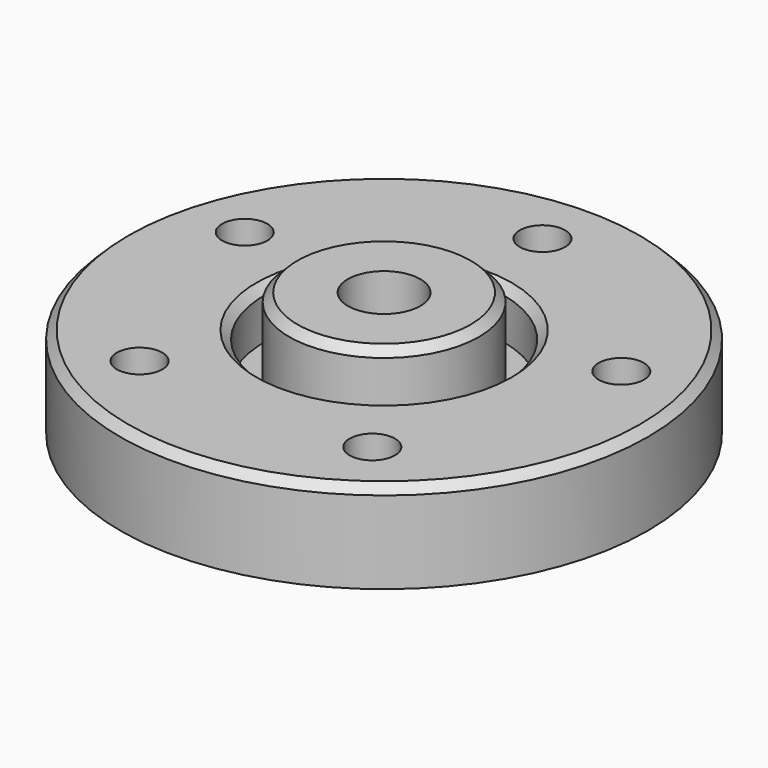
from build123d import *

# Parameters (mm, degrees)
F0_R     = 11.5
F1_DEPTH = 15
F0_R_2   = 14.5
F2_DEPTH = 5
F0_R_3   = 32
F3_DEPTH = 11
F4_D     = 5.5
F5_D     = 8.8
F6_SIZE  = 1
F7_SIZE  = 1
F8_SIZE  = 1


with BuildPart() as f1:
    # F0 (on Top) → F1 (new body)
    with BuildSketch(Plane.XY):
        Circle(F0_R)
    extrude(amount=F1_DEPTH)

    # F0 (on Top) → F2 (join)
    with BuildSketch(Plane.XY):
        Circle(F0_R_2)
        Circle(F0_R, mode=Mode.SUBTRACT)
    extrude(amount=F2_DEPTH)

    # F0 (on Top) → F3 (join)
    with BuildSketch(Plane.XY):
        Circle(F0_R_3)
        Circle(F0_R_2, mode=Mode.SUBTRACT)
    extrude(amount=F3_DEPTH)

    # F4 (through all)
    with Locations(Plane(origin=(0, 0, 0), x_dir=(1, 0, 0), z_dir=(0, 0, -1))):
        with Locations((-22.8253563911, -7.416407865), (0, -24), (22.8253563911, -7.416407865), (14.106846055, 19.416407865), (-14.106846055, 19.416407865)):
            Hole(F4_D / 2)

    # F5 (through all)
    with Locations(Plane(origin=(0, 0, 0), x_dir=(1, 0, 0), z_dir=(0, 0, -1))):
        with Locations((0, 0)):
            Hole(F5_D / 2)

    # F6
    f6_edges = [f1.edges().sort_by_distance(p)[0] for p in [
        (-11.5, 0, 15),
    ]]
    chamfer(f6_edges, length=F6_SIZE)

    # F7
    f7_edges = [f1.edges().sort_by_distance(p)[0] for p in [
        (-14.5, 0, 11),
    ]]
    chamfer(f7_edges, length=F7_SIZE)

    # F8
    f8_edges = [f1.edges().sort_by_distance(p)[0] for p in [
        (-32, 0, 11),
    ]]
    chamfer(f8_edges, length=F8_SIZE)


solid = f1.part
